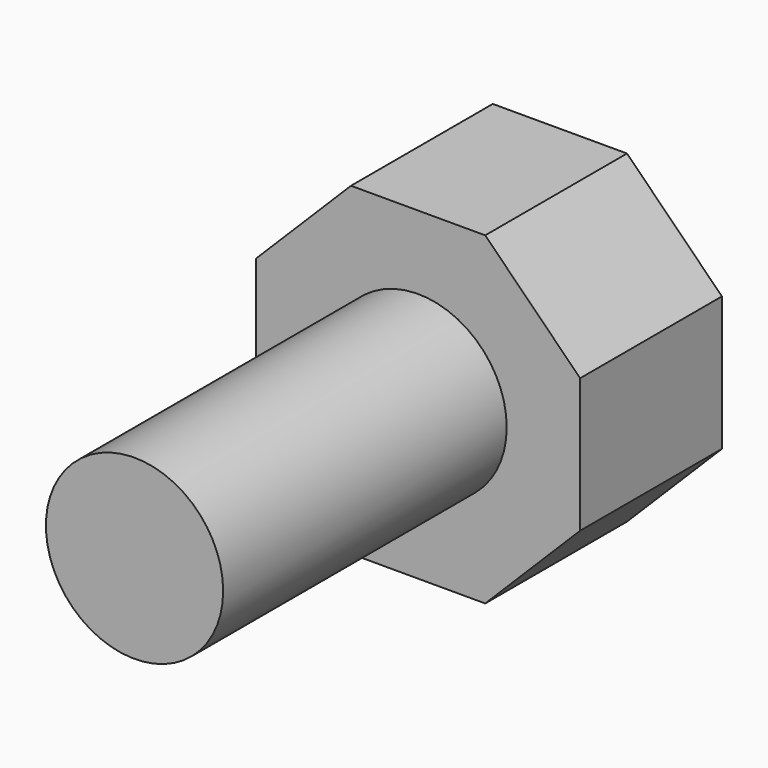
from build123d import *

# Parameters (mm, degrees)
F0_R     = 6.35
F1_DEPTH = 38.1
F2_R     = 6.35
F3_DEPTH = 12.7


with BuildPart() as f1:
    # F0 (on Front) → F1 (new body)
    with BuildSketch(Plane.XZ):
        Circle(F0_R)
    extrude(amount=F1_DEPTH)

    # F2 (on face) → F3 (join)
    with BuildSketch(Plane(origin=(0, 0, 0), x_dir=(-1, 0, 0), z_dir=(0, 1, 0))):
        Polygon((-4.809396, -11.610908), (4.809396, -11.610908), (11.610908, -4.809396), (11.610908, 4.809396), (4.809396, 11.610908), (-4.809396, 11.610908), (-11.610908, 4.809396), (-11.610908, -4.809396), align=None)
        Circle(F2_R, mode=Mode.SUBTRACT)
    extrude(amount=-F3_DEPTH)


solid = f1.part
